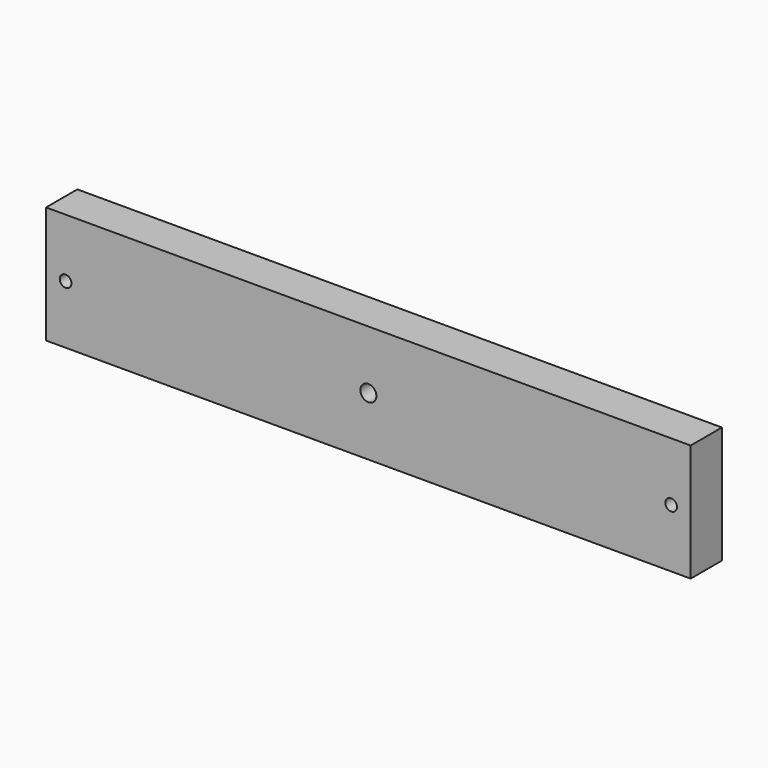
from build123d import *

# Parameters (mm, degrees)
F0_W     = 165
F0_H     = 30
F0_R     = 1.5
F0_R_2   = 4.75
F0_R_3   = 2.055
F1_DEPTH = 10
F2_DEPTH = 2.75
F3_DEPTH = 25


with BuildPart() as f1:
    # F0 (on Front) → F1 (new body)
    with BuildSketch(Plane.XZ):
        Rectangle(F0_W, F0_H)
        with Locations((-77.5, 0)):
            Circle(F0_R, mode=Mode.SUBTRACT)
        Circle(F0_R_2, mode=Mode.SUBTRACT)
        with Locations((77.5, 0)):
            Circle(F0_R, mode=Mode.SUBTRACT)
        Circle(F0_R_2)
        Circle(F0_R_3, mode=Mode.SUBTRACT)
        Circle(F0_R_3)
    extrude(amount=F1_DEPTH)

    # F0 (on Front) → F2 (cut)
    with BuildSketch(Plane.XZ):
        Circle(F0_R_2)
        Circle(F0_R_3, mode=Mode.SUBTRACT)
        Circle(F0_R_3)
    extrude(amount=F2_DEPTH, mode=Mode.SUBTRACT)

    # F0 (on Front) → F3 (cut)
    with BuildSketch(Plane.XZ):
        Circle(F0_R_3)
    extrude(amount=F3_DEPTH, mode=Mode.SUBTRACT)


solid = f1.part
